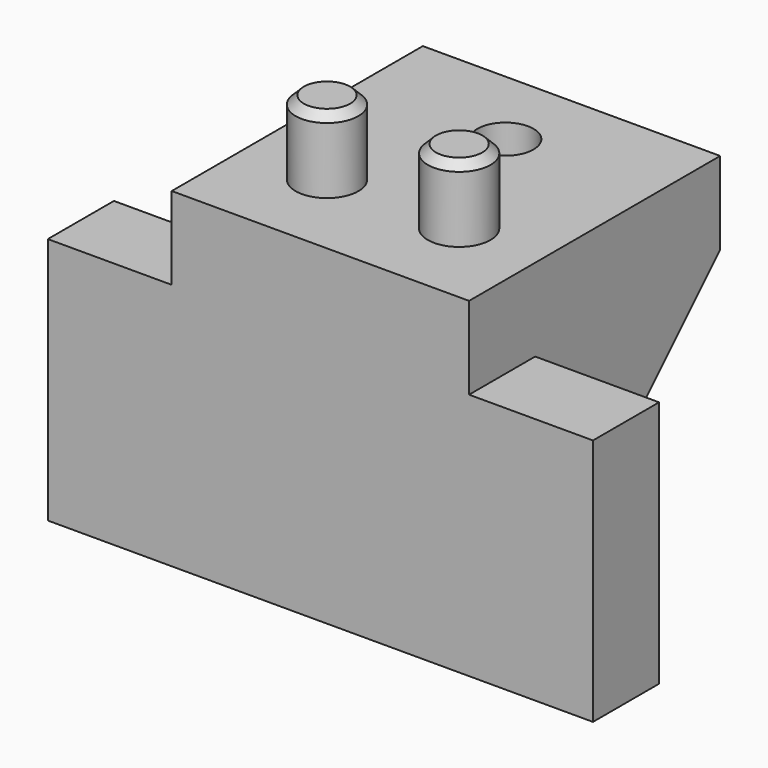
from build123d import *

# Parameters (mm, degrees)
SKETCH_W     = 18
SKETCH_H     = 19
PAD_DEPTH    = 5
SKETCH001_R  = 1.7
HOLE_DEPTH   = 5.001
POCKET_DEPTH = 2.15
SKETCH003_R  = 1.9
PAD001_DEPTH = 4.5
CHAMFER_SIZE = 0.5
SKETCH004_W  = 33
SKETCH004_H  = 5
PAD002_DEPTH = 15
PAD003_DEPTH = 5


with BuildPart() as part:
    # Sketch → Pad (new body)
    with BuildSketch(Plane.XY):
        with Locations((0, 0.5)):
            Rectangle(SKETCH_W, SKETCH_H)
    extrude(amount=PAD_DEPTH)

    # Sketch001 (on Face6 of Pad) → Hole (cut, through all)
    with BuildSketch(Plane.XY.offset(5)):
        with Locations((0, 5)):
            Circle(SKETCH001_R)
    extrude(amount=-HOLE_DEPTH, mode=Mode.SUBTRACT)

    # Sketch002 (on Face4 of Hole) → Pocket (cut)
    with BuildSketch(Plane(origin=(0, 0, 0), x_dir=(1, 0, 0), z_dir=(0, 0, -1))):
        Polygon((3.348632, -5), (1.674316, -2.1), (-1.674316, -2.1), (-3.348632, -5), (-1.674316, -7.9), (1.674316, -7.9), align=None)
    extrude(amount=-POCKET_DEPTH, mode=Mode.SUBTRACT)

    # Sketch003 (on Face5 of Pocket) → Pad001 (join)
    with BuildSketch(Plane.XY.offset(5)):
        with Locations((-4, -3.5)):
            Circle(SKETCH003_R)
    pad001 = extrude(amount=PAD001_DEPTH)

    # Mirrored: Pad001 across YZ
    add(pad001.mirror(Plane.YZ))

    # Chamfer
    chamfer_edges = [part.edges().sort_by_distance(p)[0] for p in [
        (-5.9, -3.5, 9.5),
        (5.9, -3.5, 9.5),
    ]]
    chamfer(chamfer_edges, length=CHAMFER_SIZE)

    # Sketch004 (on Face4 of Pocket) → Pad002 (join)
    with BuildSketch(Plane(origin=(0, 0, 0), x_dir=(1, 0, 0), z_dir=(0, 0, -1))):
        with Locations((0, 6.5)):
            Rectangle(SKETCH004_W, SKETCH004_H)
    extrude(amount=PAD002_DEPTH)

    # Sketch005 (on Face7 of Pad002) → Pad003 (join)
    with BuildSketch(Plane.YZ.offset(9)):
        Polygon((10, 0), (-4, -14), (-4, 0), align=None)
    pad003 = extrude(amount=-PAD003_DEPTH)

    # Mirrored001: Pad003 across YZ
    add(pad003.mirror(Plane.YZ))


solid = part.part
